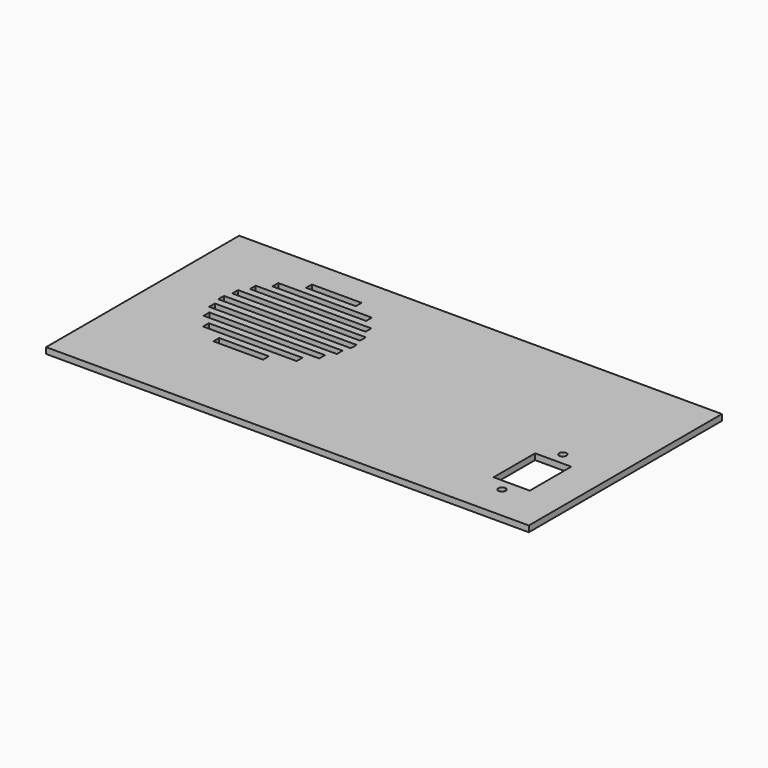
from build123d import *

# Parameters (mm, degrees)
F0_W     = 254
F0_H     = 127
F1_DEPTH = 3.175


with BuildPart() as f1:
    # F0 (on Top) → F1 (new body)
    with BuildSketch(Plane.XY):
        with Locations((0, 12.7)):
            Rectangle(F0_W, F0_H)
        with BuildLine():
            ThreePointArc((100.322528, -32.7025), (97.070489, -34.049538), (98.417528, -30.7975))
            ThreePointArc((98.417528, -30.7975), (99.764566, -31.355462), (100.322528, -32.7025))
        make_face(mode=Mode.SUBTRACT)
        Polygon((107.942528, 0.9525), (107.942528, -26.3525), (98.417528, -26.3525), (88.892528, -26.3525), (88.892528, 0.9525), (98.417528, 0.9525), align=None, mode=Mode.SUBTRACT)
        with BuildLine():
            ThreePointArc((100.322528, 7.3025), (99.764566, 5.955462), (98.417528, 5.3975))
            ThreePointArc((98.417528, 5.3975), (97.070489, 8.649538), (100.322528, 7.3025))
        make_face(mode=Mode.SUBTRACT)
        with BuildLine():
            ThreePointArc((-28.626993, 30.48), (-28.588001, 29.527855), (-28.575, 28.575))
            ThreePointArc((-28.575, 28.575), (-28.588001, 27.622145), (-28.626993, 26.67))
            ThreePointArc((-28.626993, 26.67), (-28.784072, 24.759251), (-29.045764, 22.86))
            ThreePointArc((-29.045764, 22.86), (-29.419078, 20.943068), (-29.898958, 19.05))
            ThreePointArc((-29.898958, 19.05), (-30.504943, 17.125902), (-31.221007, 15.24))
            ThreePointArc((-31.221007, 15.24), (-32.089164, 13.306895), (-33.072963, 11.43))
            ThreePointArc((-33.072963, 11.43), (-34.254372, 9.484457), (-35.56, 7.62))
            ThreePointArc((-35.56, 7.62), (-37.147946, 5.655033), (-38.873786, 3.81))
            ThreePointArc((-38.873786, 3.81), (-41.065634, 1.808326), (-43.419537, 0))
            ThreePointArc((-43.419537, 0), (-46.812949, -2.105579), (-50.42455, -3.81))
            ThreePointArc((-50.42455, -3.81), (-63.5, -6.35), (-76.57545, -3.81))
            ThreePointArc((-76.57545, -3.81), (-80.187051, -2.105579), (-83.580463, 0))
            ThreePointArc((-83.580463, 0), (-85.934366, 1.808326), (-88.126214, 3.81))
            ThreePointArc((-88.126214, 3.81), (-89.852054, 5.655033), (-91.44, 7.62))
            ThreePointArc((-91.44, 7.62), (-92.745628, 9.484457), (-93.927037, 11.43))
            ThreePointArc((-93.927037, 11.43), (-94.910836, 13.306895), (-95.778993, 15.24))
            ThreePointArc((-95.778993, 15.24), (-96.495057, 17.125902), (-97.101042, 19.05))
            ThreePointArc((-97.101042, 19.05), (-97.580922, 20.943068), (-97.954236, 22.86))
            ThreePointArc((-97.954236, 22.86), (-98.215928, 24.759251), (-98.373007, 26.67))
            ThreePointArc((-98.373007, 26.67), (-98.425, 28.575), (-98.373007, 30.48))
            ThreePointArc((-98.373007, 30.48), (-98.215928, 32.390749), (-97.954236, 34.29))
            ThreePointArc((-97.954236, 34.29), (-97.580922, 36.206932), (-97.101042, 38.1))
            ThreePointArc((-97.101042, 38.1), (-96.495057, 40.024098), (-95.778993, 41.91))
            ThreePointArc((-95.778993, 41.91), (-94.910836, 43.843105), (-93.927037, 45.72))
            ThreePointArc((-93.927037, 45.72), (-92.745628, 47.665543), (-91.44, 49.53))
            ThreePointArc((-91.44, 49.53), (-89.852054, 51.494967), (-88.126214, 53.34))
            ThreePointArc((-88.126214, 53.34), (-85.934366, 55.341674), (-83.580463, 57.15))
            ThreePointArc((-83.580463, 57.15), (-80.187051, 59.255579), (-76.57545, 60.96))
            ThreePointArc((-76.57545, 60.96), (-63.5, 63.5), (-50.42455, 60.96))
            ThreePointArc((-50.42455, 60.96), (-46.812949, 59.255579), (-43.419537, 57.15))
            ThreePointArc((-43.419537, 57.15), (-41.065634, 55.341674), (-38.873786, 53.34))
            ThreePointArc((-38.873786, 53.34), (-37.147946, 51.494967), (-35.56, 49.53))
            ThreePointArc((-35.56, 49.53), (-34.254372, 47.665543), (-33.072963, 45.72))
            ThreePointArc((-33.072963, 45.72), (-32.089164, 43.843105), (-31.221007, 41.91))
            ThreePointArc((-31.221007, 41.91), (-30.504943, 40.024098), (-29.898958, 38.1))
            ThreePointArc((-29.898958, 38.1), (-29.419078, 36.206932), (-29.045764, 34.29))
            ThreePointArc((-29.045764, 34.29), (-28.784072, 32.390749), (-28.626993, 30.48))
        make_face(mode=Mode.SUBTRACT)
        with BuildLine():
            ThreePointArc((-76.57545, -3.81), (-63.5, -6.35), (-50.42455, -3.81))
            Line((-50.42455, -3.81), (-76.57545, -3.81))
        make_face()
        with BuildLine():
            ThreePointArc((-43.419537, 0), (-41.065634, 1.808326), (-38.873786, 3.81))
            Line((-38.873786, 3.81), (-88.126214, 3.81))
            ThreePointArc((-88.126214, 3.81), (-85.934366, 1.808326), (-83.580463, 0))
            Line((-83.580463, 0), (-76.57545, 0))
            Line((-76.57545, 0), (-50.42455, 0))
            Line((-50.42455, 0), (-43.419537, 0))
        make_face()
        with BuildLine():
            ThreePointArc((-50.42455, -3.81), (-46.812949, -2.105579), (-43.419537, 0))
            Line((-43.419537, 0), (-50.42455, 0))
            Line((-50.42455, 0), (-50.42455, -3.81))
        make_face()
        with BuildLine():
            Line((-76.57545, 0), (-83.580463, 0))
            ThreePointArc((-83.580463, 0), (-80.187051, -2.105579), (-76.57545, -3.81))
            Line((-76.57545, -3.81), (-76.57545, 0))
        make_face()
        with BuildLine():
            Line((-88.126214, 7.62), (-91.44, 7.62))
            ThreePointArc((-91.44, 7.62), (-89.852054, 5.655033), (-88.126214, 3.81))
            Line((-88.126214, 3.81), (-88.126214, 7.62))
        make_face()
        with BuildLine():
            ThreePointArc((-38.873786, 3.81), (-37.147946, 5.655033), (-35.56, 7.62))
            Line((-35.56, 7.62), (-38.873786, 7.62))
            Line((-38.873786, 7.62), (-38.873786, 3.81))
        make_face()
        with BuildLine():
            ThreePointArc((-35.56, 7.62), (-34.254372, 9.484457), (-33.072963, 11.43))
            Line((-33.072963, 11.43), (-93.927037, 11.43))
            ThreePointArc((-93.927037, 11.43), (-92.745628, 9.484457), (-91.44, 7.62))
            Line((-91.44, 7.62), (-88.126214, 7.62))
            Line((-88.126214, 7.62), (-38.873786, 7.62))
            Line((-38.873786, 7.62), (-35.56, 7.62))
        make_face()
        with BuildLine():
            ThreePointArc((-31.221007, 15.24), (-30.504943, 17.125902), (-29.898958, 19.05))
            Line((-29.898958, 19.05), (-97.101042, 19.05))
            ThreePointArc((-97.101042, 19.05), (-96.495057, 17.125902), (-95.778993, 15.24))
            Line((-95.778993, 15.24), (-93.927037, 15.24))
            Line((-93.927037, 15.24), (-33.072963, 15.24))
            Line((-33.072963, 15.24), (-31.221007, 15.24))
        make_face()
        with BuildLine():
            ThreePointArc((-33.072963, 11.43), (-32.089164, 13.306895), (-31.221007, 15.24))
            Line((-31.221007, 15.24), (-33.072963, 15.24))
            Line((-33.072963, 15.24), (-33.072963, 11.43))
        make_face()
        with BuildLine():
            Line((-93.927037, 15.24), (-95.778993, 15.24))
            ThreePointArc((-95.778993, 15.24), (-94.910836, 13.306895), (-93.927037, 11.43))
            Line((-93.927037, 11.43), (-93.927037, 15.24))
        make_face()
        with BuildLine():
            ThreePointArc((-29.898958, 19.05), (-29.419078, 20.943068), (-29.045764, 22.86))
            Line((-29.045764, 22.86), (-29.898958, 22.86))
            Line((-29.898958, 22.86), (-29.898958, 19.05))
        make_face()
        with BuildLine():
            Line((-97.101042, 22.86), (-97.954236, 22.86))
            ThreePointArc((-97.954236, 22.86), (-97.580922, 20.943068), (-97.101042, 19.05))
            Line((-97.101042, 19.05), (-97.101042, 22.86))
        make_face()
        with BuildLine():
            ThreePointArc((-29.045764, 22.86), (-28.784072, 24.759251), (-28.626993, 26.67))
            Line((-28.626993, 26.67), (-98.373007, 26.67))
            ThreePointArc((-98.373007, 26.67), (-98.215928, 24.759251), (-97.954236, 22.86))
            Line((-97.954236, 22.86), (-97.101042, 22.86))
            Line((-97.101042, 22.86), (-29.898958, 22.86))
            Line((-29.898958, 22.86), (-29.045764, 22.86))
        make_face()
        with BuildLine():
            Line((-98.373007, 30.48), (-28.626993, 30.48))
            ThreePointArc((-28.626993, 30.48), (-28.784072, 32.390749), (-29.045764, 34.29))
            Line((-29.045764, 34.29), (-29.898958, 34.29))
            Line((-29.898958, 34.29), (-97.101042, 34.29))
            Line((-97.101042, 34.29), (-97.954236, 34.29))
            ThreePointArc((-97.954236, 34.29), (-98.215928, 32.390749), (-98.373007, 30.48))
        make_face()
        with BuildLine():
            Line((-29.898958, 34.29), (-29.045764, 34.29))
            ThreePointArc((-29.045764, 34.29), (-29.419078, 36.206932), (-29.898958, 38.1))
            Line((-29.898958, 38.1), (-29.898958, 34.29))
        make_face()
        with BuildLine():
            ThreePointArc((-97.101042, 38.1), (-97.580922, 36.206932), (-97.954236, 34.29))
            Line((-97.954236, 34.29), (-97.101042, 34.29))
            Line((-97.101042, 34.29), (-97.101042, 38.1))
        make_face()
        with BuildLine():
            Line((-97.101042, 38.1), (-29.898958, 38.1))
            ThreePointArc((-29.898958, 38.1), (-30.504943, 40.024098), (-31.221007, 41.91))
            Line((-31.221007, 41.91), (-33.072963, 41.91))
            Line((-33.072963, 41.91), (-93.927037, 41.91))
            Line((-93.927037, 41.91), (-95.778993, 41.91))
            ThreePointArc((-95.778993, 41.91), (-96.495057, 40.024098), (-97.101042, 38.1))
        make_face()
        with BuildLine():
            Line((-33.072963, 41.91), (-31.221007, 41.91))
            ThreePointArc((-31.221007, 41.91), (-32.089164, 43.843105), (-33.072963, 45.72))
            Line((-33.072963, 45.72), (-33.072963, 41.91))
        make_face()
        with BuildLine():
            ThreePointArc((-93.927037, 45.72), (-94.910836, 43.843105), (-95.778993, 41.91))
            Line((-95.778993, 41.91), (-93.927037, 41.91))
            Line((-93.927037, 41.91), (-93.927037, 45.72))
        make_face()
        with BuildLine():
            Line((-93.927037, 45.72), (-33.072963, 45.72))
            ThreePointArc((-33.072963, 45.72), (-34.254372, 47.665543), (-35.56, 49.53))
            Line((-35.56, 49.53), (-38.873786, 49.53))
            Line((-38.873786, 49.53), (-88.126214, 49.53))
            Line((-88.126214, 49.53), (-91.44, 49.53))
            ThreePointArc((-91.44, 49.53), (-92.745628, 47.665543), (-93.927037, 45.72))
        make_face()
        with BuildLine():
            Line((-38.873786, 49.53), (-35.56, 49.53))
            ThreePointArc((-35.56, 49.53), (-37.147946, 51.494967), (-38.873786, 53.34))
            Line((-38.873786, 53.34), (-38.873786, 49.53))
        make_face()
        with BuildLine():
            ThreePointArc((-88.126214, 53.34), (-89.852054, 51.494967), (-91.44, 49.53))
            Line((-91.44, 49.53), (-88.126214, 49.53))
            Line((-88.126214, 49.53), (-88.126214, 53.34))
        make_face()
        with BuildLine():
            Line((-88.126214, 53.34), (-38.873786, 53.34))
            ThreePointArc((-38.873786, 53.34), (-41.065634, 55.341674), (-43.419537, 57.15))
            Line((-43.419537, 57.15), (-50.42455, 57.15))
            Line((-50.42455, 57.15), (-76.57545, 57.15))
            Line((-76.57545, 57.15), (-83.580463, 57.15))
            ThreePointArc((-83.580463, 57.15), (-85.934366, 55.341674), (-88.126214, 53.34))
        make_face()
        with BuildLine():
            Line((-50.42455, 57.15), (-43.419537, 57.15))
            ThreePointArc((-43.419537, 57.15), (-46.812949, 59.255579), (-50.42455, 60.96))
            Line((-50.42455, 60.96), (-50.42455, 57.15))
        make_face()
        with BuildLine():
            ThreePointArc((-76.57545, 60.96), (-80.187051, 59.255579), (-83.580463, 57.15))
            Line((-83.580463, 57.15), (-76.57545, 57.15))
            Line((-76.57545, 57.15), (-76.57545, 60.96))
        make_face()
        with BuildLine():
            Line((-76.57545, 60.96), (-50.42455, 60.96))
            ThreePointArc((-50.42455, 60.96), (-63.5, 63.5), (-76.57545, 60.96))
        make_face()
    extrude(amount=F1_DEPTH)


solid = f1.part
